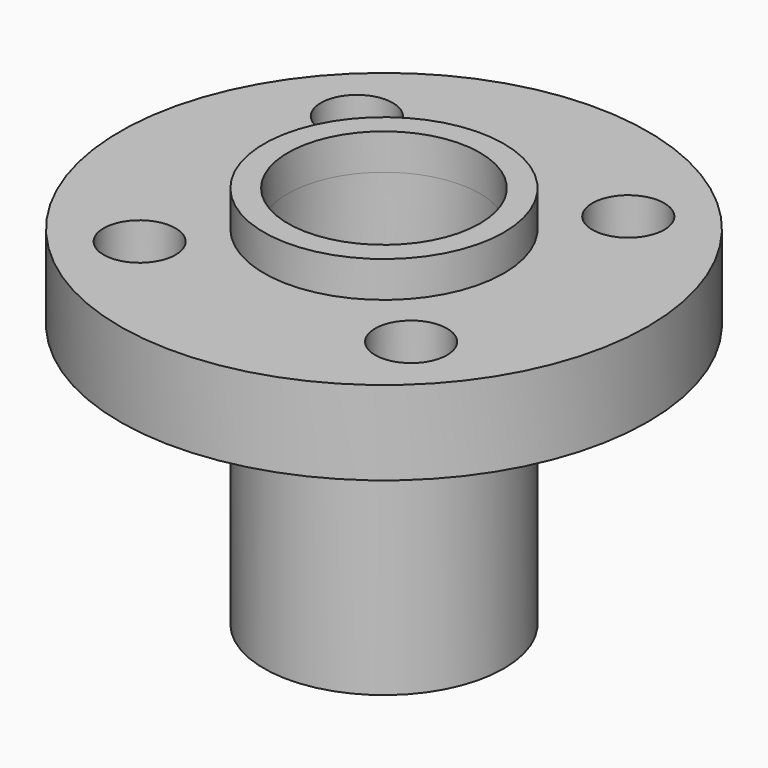
from build123d import *

# Parameters (mm, degrees)
F0_R          = 11
F0_R_2        = 1.5
F0_R_3        = 4
F1_DEPTH      = 3.5
F2_R          = 5
F2_R_2        = 4
F3_DEPTH      = 11
F3_DEPTH_BACK = 5


with BuildPart() as f1:
    # F0 (on Top) → F1 (new body)
    with BuildSketch(Plane.XY):
        Circle(F0_R)
        with Locations((-5.656854, -5.656854)):
            Circle(F0_R_2, mode=Mode.SUBTRACT)
        with Locations((5.656854, -5.656854)):
            Circle(F0_R_2, mode=Mode.SUBTRACT)
        with Locations((-5.656854, 5.656854)):
            Circle(F0_R_2, mode=Mode.SUBTRACT)
        Circle(F0_R_3, mode=Mode.SUBTRACT)
        with Locations((5.656854, 5.656854)):
            Circle(F0_R_2, mode=Mode.SUBTRACT)
    extrude(amount=F1_DEPTH)

    # F2 (on face) → F3 (join, two sides)
    with BuildSketch(Plane(origin=(0, 0, 0), x_dir=(1, 0, 0), z_dir=(0, 0, -1))) as f3_sk:
        Circle(F2_R)
        Circle(F2_R_2, mode=Mode.SUBTRACT)
    extrude(amount=F3_DEPTH)
    extrude(f3_sk.sketch, amount=-F3_DEPTH_BACK)


solid = f1.part
